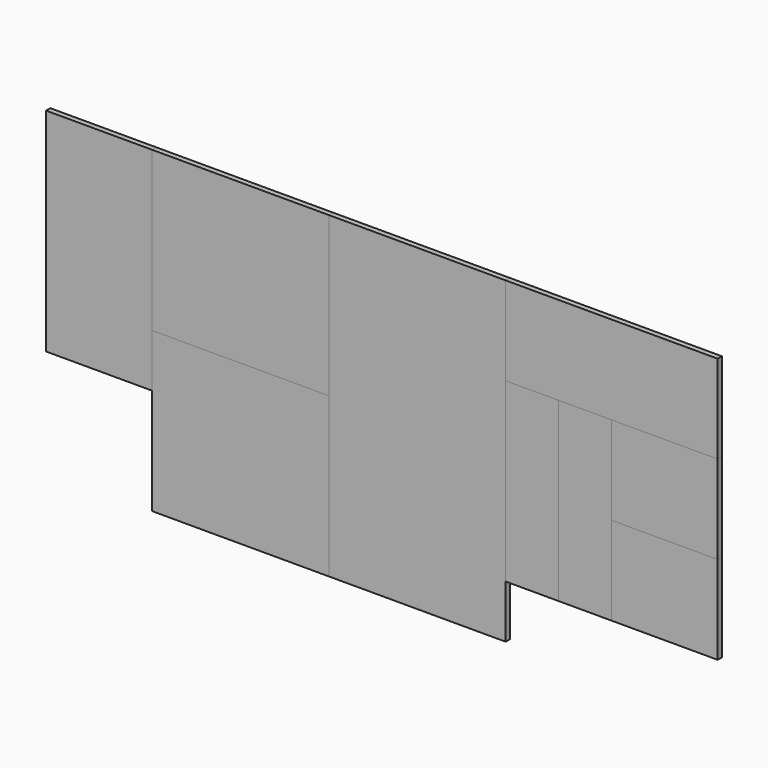
from build123d import *

# Parameters (mm, degrees)
F1_DEPTH = 30.48
F0_W     = 1016
F0_H     = 914.4
F0_W_2   = 609.6
F0_H_2   = 508
F2_DEPTH = 30.48
F0_W_3   = 304.8
F0_H_3   = 1016
F3_DEPTH = 30.48


with BuildPart() as f1:
    # F0 (on Front) → F1 (new body)
    with BuildSketch(Plane.XZ):
        Polygon((609.6, 0), (0, 0), (0, -1219.2), (609.6, -1219.2), (609.6, -914.4), align=None)
        Polygon((2641.6, 0), (1625.6, 0), (1625.6, -914.4), (1625.6, -1828.8), (2641.6, -1828.8), (2641.6, -1524), (2641.6, -508), align=None)
        Polygon((3251.2, -508), (2946.4, -508), (2946.4, -1524), (3251.2, -1524), (3251.2, -1016), align=None)
    extrude(amount=F1_DEPTH)


with BuildPart() as f2:
    # F0 (on Front) → F2 (new body)
    with BuildSketch(Plane.XZ):
        with Locations((1117.6, -457.2)):
            Rectangle(F0_W, F0_H)
        Polygon((3860.8, 0), (2641.6, 0), (2641.6, -508), (2946.4, -508), (3251.2, -508), (3860.8, -508), align=None)
        with Locations((3556, -1270)):
            Rectangle(F0_W_2, F0_H_2)
    extrude(amount=F2_DEPTH)


with BuildPart() as f3:
    # F0 (on Front) → F3 (new body)
    with BuildSketch(Plane.XZ):
        Polygon((1625.6, -914.4), (609.6, -914.4), (609.6, -1219.2), (609.6, -1828.8), (1625.6, -1828.8), align=None)
        with Locations((2794, -1016)):
            Rectangle(F0_W_3, F0_H_3)
        with Locations((3556, -762)):
            Rectangle(F0_W_2, F0_H_2)
    extrude(amount=F3_DEPTH)


solid = Compound([f1.part, f2.part, f3.part])
